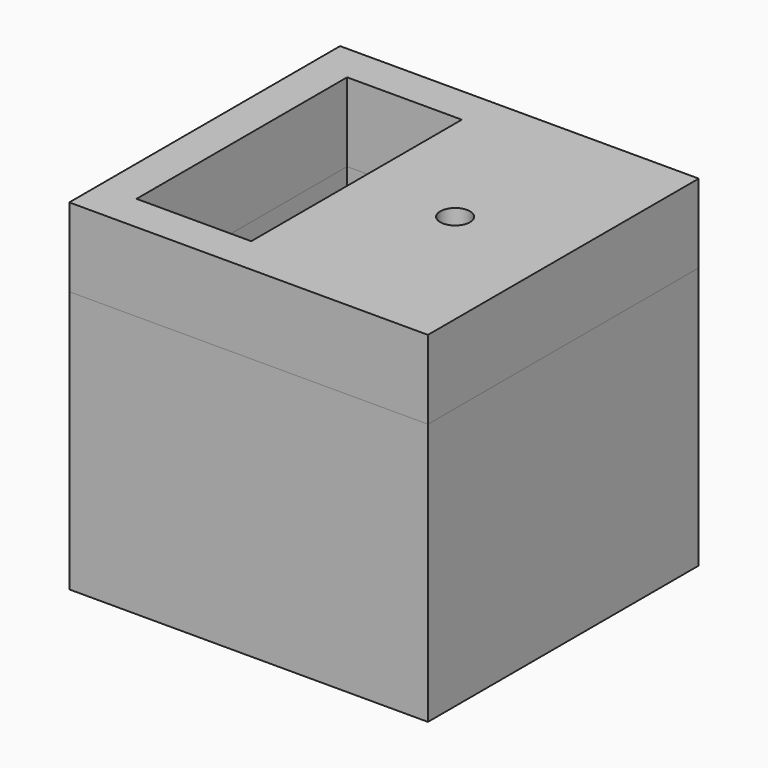
from build123d import *

# Parameters (mm, degrees)
SKETCH_W      = 27.367868
SKETCH_H      = 25.828436
SKETCH_R      = 1.132263
SKETCH_W_2    = 8.752947
SKETCH_H_2    = 20.08381
PAD_DEPTH     = 20
SKETCH001_W   = 27.367868
SKETCH001_H   = 25.828436
SKETCH001_R   = 1.132263
SKETCH001_W_2 = 8.752947
SKETCH001_H_2 = 20.08381
PAD001_DEPTH  = 6


with BuildPart() as obj1:
    # Sketch → Pad (new body)
    with BuildSketch(Plane.XY):
        Rectangle(SKETCH_W, SKETCH_H)
        with Locations((5.426437, 0)):
            Circle(SKETCH_R, mode=Mode.SUBTRACT)
        with Locations((-6.463912, -0.011482)):
            Rectangle(SKETCH_W_2, SKETCH_H_2, mode=Mode.SUBTRACT)
    extrude(amount=PAD_DEPTH)


with BuildPart() as body001:
    # Sketch001 (on Face11 of Binder) → Pad001 (new body)
    with BuildSketch(Plane.XY):
        Rectangle(SKETCH001_W, SKETCH001_H)
        with Locations((5.426437, 0)):
            Circle(SKETCH001_R, mode=Mode.SUBTRACT)
        with Locations((-6.463912, -0.011482)):
            Rectangle(SKETCH001_W_2, SKETCH001_H_2, mode=Mode.SUBTRACT)
    extrude(amount=PAD001_DEPTH)


with BuildPart() as body001_1:
    # Body001 placement: moved
    add(body001.part.moved(Location((0, 0, 20))))


solid = Compound([obj1.part, body001_1.part])
